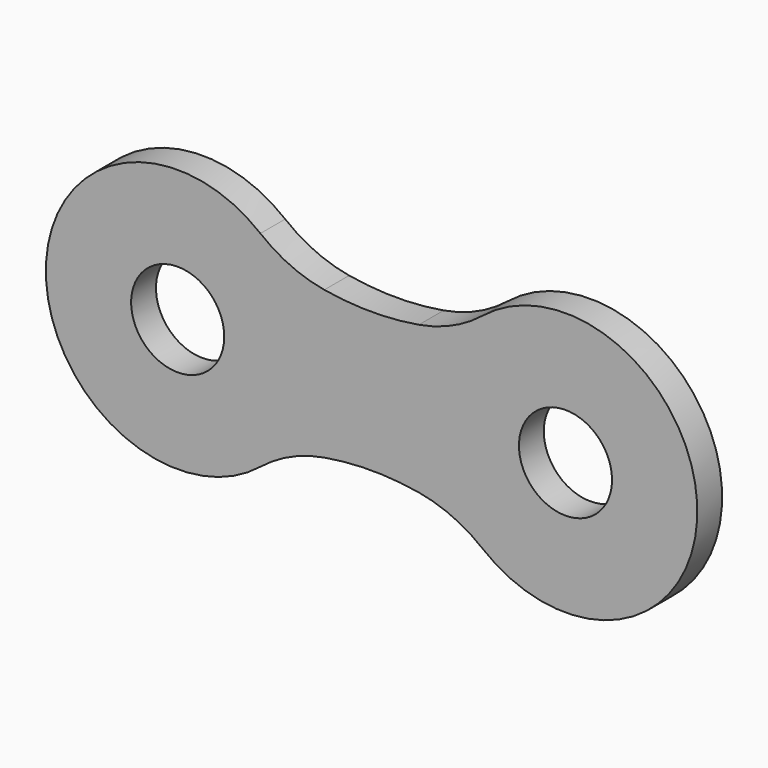
from build123d import *

# Parameters (mm, degrees)
F0_R     = 1.5
F1_DEPTH = 1


with BuildPart() as f1:
    # F0 (on Front) → F1 (new body)
    with BuildSketch(Plane.XZ):
        with BuildLine():
            ThreePointArc((4.726077, 2.379957), (3.636484, 2.713546), (2.665619, 3.310132))
            ThreePointArc((2.665619, 3.310132), (-4.25, 0), (2.665619, -3.310132))
            ThreePointArc((2.665619, -3.310132), (3.636484, -2.713546), (4.726077, -2.379957))
            ThreePointArc((4.726077, -2.379957), (6.25, -2.25), (7.773923, -2.379957))
            ThreePointArc((7.773923, -2.379957), (8.863516, -2.713546), (9.834381, -3.310132))
            ThreePointArc((9.834381, -3.310132), (16.75, 0), (9.834381, 3.310132))
            ThreePointArc((9.834381, 3.310132), (8.863516, 2.713546), (7.773923, 2.379957))
            ThreePointArc((7.773923, 2.379957), (6.25, 2.25), (4.726077, 2.379957))
        make_face()
        Circle(F0_R, mode=Mode.SUBTRACT)
        with Locations((12.5, 0)):
            Circle(F0_R, mode=Mode.SUBTRACT)
    extrude(amount=F1_DEPTH)


with BuildPart() as f2_1:
    # F2: copy of F1
    add(f1.part)


solid = Compound([f1.part, f2_1.part])
